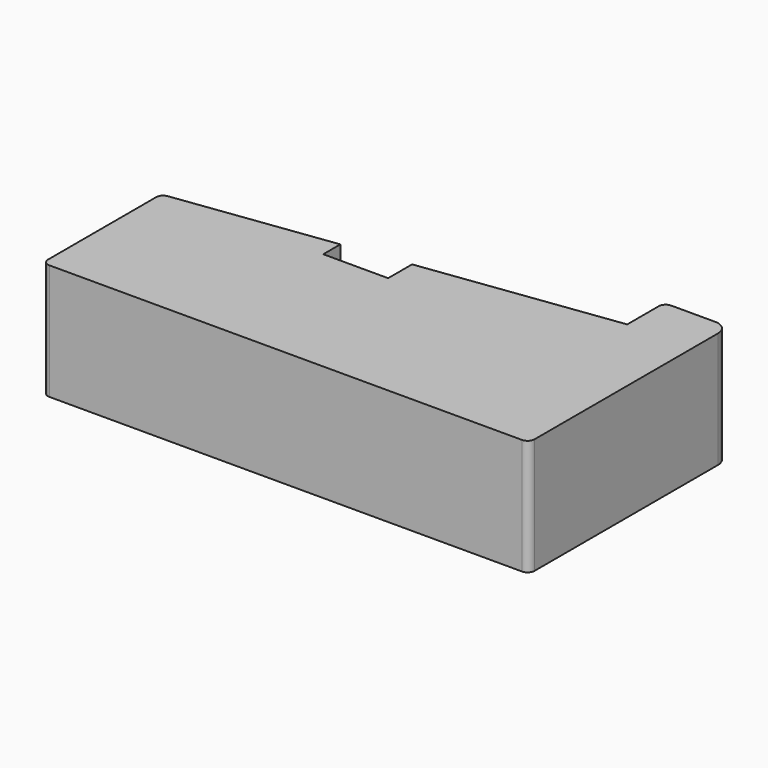
from build123d import *

# Parameters (mm, degrees)
F1_DEPTH = 25


with BuildPart() as f1:
    # F0 (on Top) → F1 (new body)
    with BuildSketch(Plane.XY):
        with BuildLine():
            ThreePointArc((-71.693551, -18.895827), (-71.254211, -19.956488), (-70.193551, -20.395827))
            Line((-70.193551, -20.395827), (31.806449, -20.395827))
            ThreePointArc((31.806449, -20.395827), (32.86711, -19.956488), (33.306449, -18.895827))
            Line((33.306449, -18.895827), (33.306449, 30.604173))
            ThreePointArc((33.306449, 30.604173), (32.42777, 32.725493), (30.306449, 33.604173))
            Line((30.306449, 33.604173), (20.806449, 33.604173))
            ThreePointArc((20.806449, 33.604173), (19.745789, 33.164833), (19.306449, 32.104173))
            Line((19.306449, 32.104173), (19.306449, 23.604173))
            Line((19.306449, 23.604173), (-22.693551, 18.065711))
            Line((-22.693551, 18.065711), (-22.693551, 11.604173))
            Line((-22.693551, 11.604173), (-36.693551, 11.604173))
            Line((-36.693551, 11.604173), (-36.693551, 16.219557))
            Line((-36.693551, 16.219557), (-70.389655, 11.776115))
            ThreePointArc((-70.389655, 11.776115), (-71.321415, 11.277888), (-71.693551, 10.288989))
            Line((-71.693551, 10.288989), (-71.693551, -18.895827))
        make_face()
    extrude(amount=F1_DEPTH)


solid = f1.part
